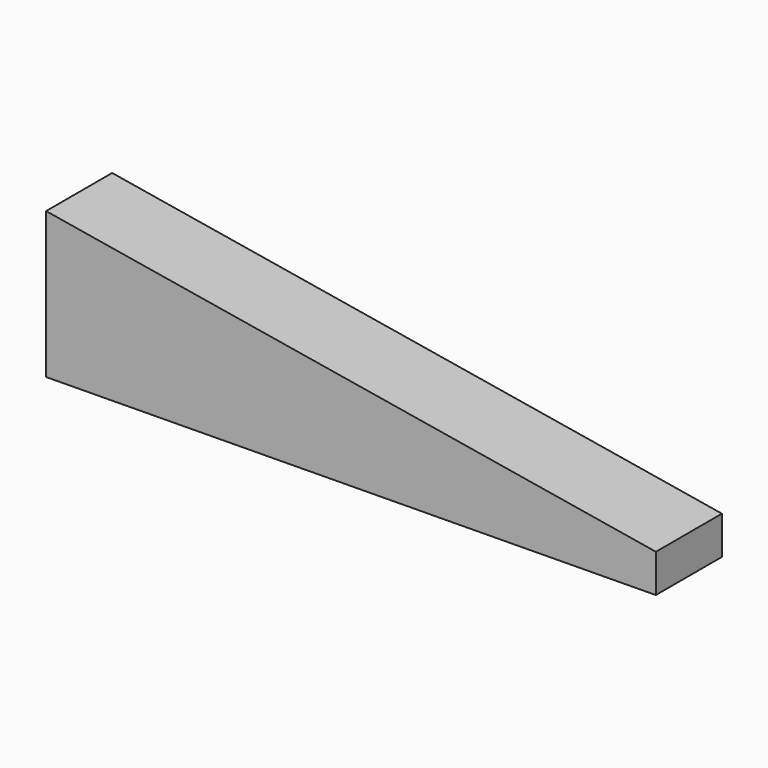
from build123d import *

# Parameters (mm, degrees)
F1_DEPTH = 41.275
F3_D     = 19.05
F3_DEPTH = 53.0098
F3_TIP   = 5.7231973962


with BuildPart() as f1:
    # F0 (on Front) → F1 (new body)
    with BuildSketch(Plane.XZ):
        Polygon((0, 73.025), (0, 0), (304.7834648873, 3.1748277592), (304.7834648873, 22.2248277592), align=None)
    extrude(amount=F1_DEPTH)

    # F3
    with Locations(Plane(origin=(0, 0, 0), x_dir=(0, -1, 0), z_dir=(-1, 0, 0))):
        with Locations((20.6375, 31.75)):
            Hole(F3_D / 2, depth=F3_DEPTH)
            with Locations((0, 0, -(F3_DEPTH + F3_TIP / 2))):  # 118° drill point
                Cone(0, F3_D / 2, F3_TIP, mode=Mode.SUBTRACT)


solid = f1.part
